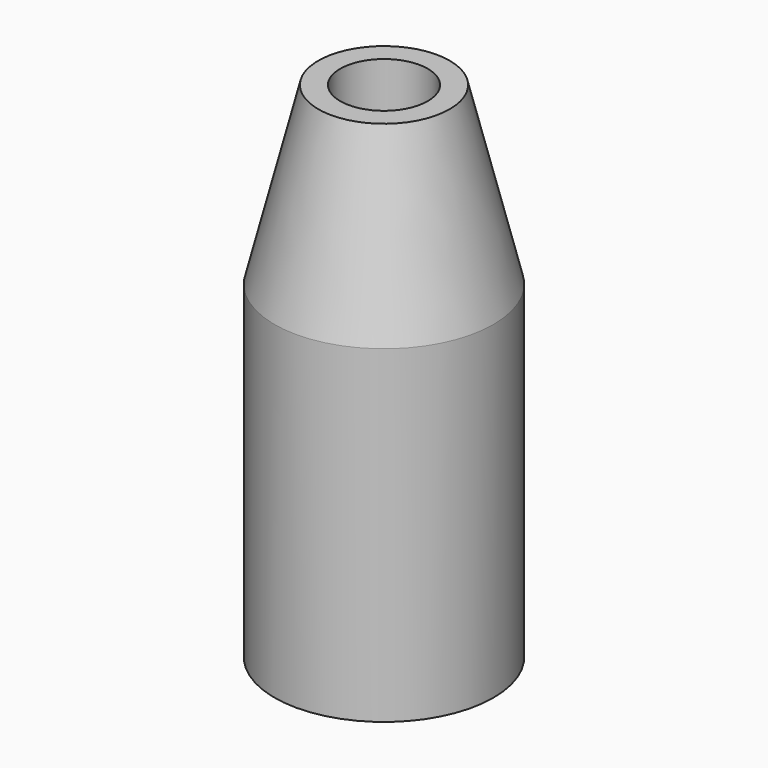
from build123d import *

# Parameters (mm, degrees)
F0_W = 3
F0_H = 15


with BuildPart() as f1:
    # F0 (on Front) → F1 (revolve)
    with BuildSketch(Plane.XZ):
        with Locations((3.5, 7.5)):
            Rectangle(F0_W, F0_H)
        Polygon((2, 23), (2, 15), (5, 15), (3, 23), align=None)
    revolve(axis=Axis((0, 0, 11.501853), (0, 0, -1)))


solid = f1.part
